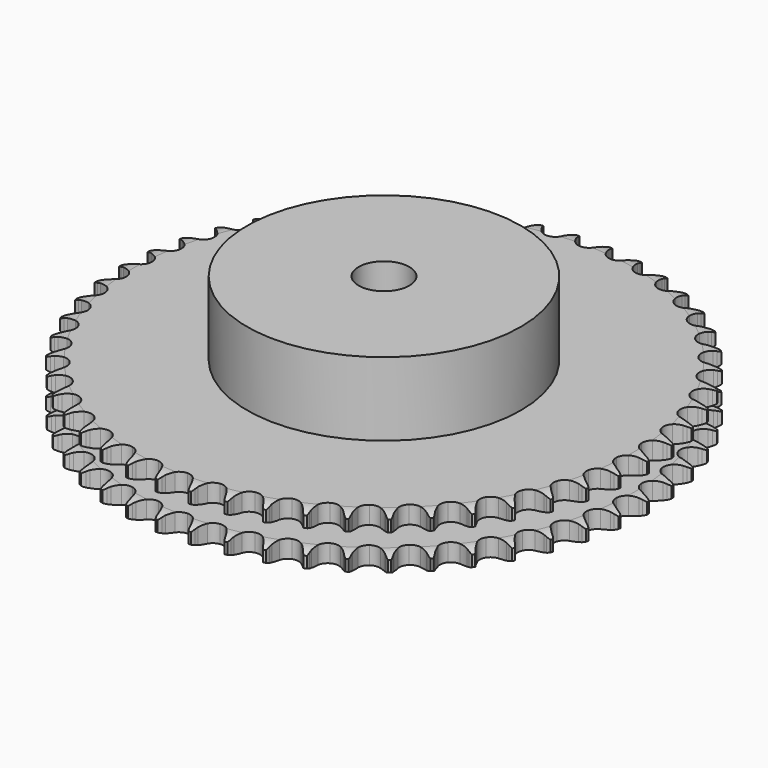
from build123d import *

# Parameters (mm, degrees)
PAD_DEPTH         = 21
SKETCH001_R       = 54
PAD001_DEPTH      = 50
SKETCH002_R       = 10
POCKET_DEPTH      = 0.001
POCKET_DEPTH_BACK = 50.001


with BuildPart() as part:
    # Sprocket → Pad (new body)
    with BuildSketch(Plane.XY):
        with BuildLine():
            ThreePointArc((-6.589501, 104.737116), (-5.911207, 103.745931), (-5.416161, 102.651646))
            Line((-5.416161, 102.651646), (-5.002238, 101.470991))
            ThreePointArc((-5.002238, 101.470991), (-4.348475, 99.970303), (-3.481529, 98.581822))
            ThreePointArc((-3.481529, 98.581822), (-1.951973, 97.282368), (0, 96.815542))
            ThreePointArc((0, 96.815542), (1.951973, 97.282368), (3.481529, 98.581822))
            ThreePointArc((3.481529, 98.581822), (4.348475, 99.970303), (5.002238, 101.470991))
            Line((5.002238, 101.470991), (5.416161, 102.651646))
            ThreePointArc((5.416161, 102.651646), (5.911207, 103.745931), (6.589501, 104.737116))
            ThreePointArc((6.589501, 104.737116), (7.138218, 103.668734), (7.49221, 102.521032))
            Line((7.49221, 102.521032), (7.754893, 101.297809))
            ThreePointArc((7.754893, 101.297809), (8.215416, 99.727015), (8.901502, 98.240826))
            ThreePointArc((8.901502, 98.240826), (10.256133, 96.759914), (12.134205, 96.052122))
            ThreePointArc((12.134205, 96.052122), (14.129295, 96.27062), (15.809655, 97.368124))
            Line((15.809655, 97.368124), (17.680482, 100.043915))
            ThreePointArc((17.680482, 100.043915), (17.944046, 100.61151), (18.239115, 101.163382))
            ThreePointArc((18.239115, 101.163382), (18.867408, 102.186993), (19.664582, 103.08535))
            ThreePointArc((19.664582, 103.08535), (20.075069, 101.956619), (20.282424, 100.7736))
            Line((20.282424, 100.7736), (20.389725, 99.527099))
            ThreePointArc((20.389725, 99.527099), (20.649744, 97.910974), (21.144151, 96.350514))
            ThreePointArc((21.144151, 96.350514), (22.302493, 94.711499), (24.077046, 93.773903))
            ThreePointArc((24.077046, 93.773903), (26.083789, 93.740627), (27.888453, 94.618872))
            Line((27.888453, 94.618872), (30.079893, 97.039087))
            ThreePointArc((30.079893, 97.039087), (30.412517, 97.569173), (30.774428, 98.079711))
            ThreePointArc((30.774428, 98.079711), (31.526059, 99.016505), (32.429541, 99.807865))
            ThreePointArc((32.429541, 99.807865), (32.695323, 98.636588), (32.752772, 97.436908))
            Line((32.752772, 97.436908), (32.702999, 96.186788))
            ThreePointArc((32.702999, 96.186788), (32.758414, 94.550817), (33.053345, 92.940697))
            ThreePointArc((33.053345, 92.940697), (33.997129, 91.169427), (35.640178, 90.016814))
            ThreePointArc((35.640178, 90.016814), (37.626927, 89.732289), (39.527433, 90.377424))
            Line((39.527433, 90.377424), (42.004927, 92.503895))
            ThreePointArc((42.004927, 92.503895), (42.401365, 92.988111), (42.82441, 93.449265))
            ThreePointArc((42.82441, 93.449265), (43.687526, 94.284467), (44.683067, 94.956351))
            ThreePointArc((44.683067, 94.956351), (44.799954, 93.760998), (44.70659, 92.563578))
            Line((44.70659, 92.563578), (44.500528, 91.329554))
            ThreePointArc((44.500528, 91.329554), (44.350463, 89.699538), (44.441268, 88.065149))
            ThreePointArc((44.441268, 88.065149), (45.155611, 86.189559), (46.641243, 84.840106))
            ThreePointArc((46.641243, 84.840106), (48.576665, 84.308818), (50.543043, 84.71067))
            Line((50.543043, 84.71067), (53.267518, 86.50986))
            ThreePointArc((53.267518, 86.50986), (53.721519, 86.940572), (54.199025, 87.345068))
            ThreePointArc((54.199025, 87.345068), (55.160013, 88.065507), (56.231914, 88.607319))
            ThreePointArc((56.231914, 88.607319), (56.198062, 87.406742), (55.955358, 86.230465))
            Line((55.955358, 86.230465), (55.596256, 85.031998))
            ThreePointArc((55.596256, 85.031998), (55.24308, 83.433643), (55.128325, 81.800761))
            ThreePointArc((55.128325, 81.800761), (55.601962, 79.85043), (56.906748, 78.325418))
            ThreePointArc((56.906748, 78.325418), (58.76032, 77.555748), (60.761558, 77.707978))
            Line((60.761558, 77.707978), (63.690048, 79.151514))
            ThreePointArc((63.690048, 79.151514), (64.194451, 79.521928), (64.71889, 79.863387))
            ThreePointArc((64.71889, 79.863387), (65.762595, 80.457701), (66.893951, 80.860896))
            ThreePointArc((66.893951, 80.860896), (66.709893, 79.674029), (66.321676, 78.537446))
            Line((66.321676, 78.537446), (65.815198, 77.393437))
            ThreePointArc((65.815198, 77.393437), (65.26448, 75.85195), (64.945975, 74.246327))
            ThreePointArc((64.945975, 74.246327), (65.171436, 72.252011), (66.274799, 70.575492))
            ThreePointArc((66.274799, 70.575492), (68.01729, 69.579577), (70.021827, 69.479785))
            Line((70.021827, 69.479785), (73.108148, 70.544901))
            ThreePointArc((73.108148, 70.544901), (73.654999, 70.849176), (74.218098, 71.122212))
            ThreePointArc((74.218098, 71.122212), (75.328061, 71.58103), (76.501029, 71.839248))
            ThreePointArc((76.501029, 71.839248), (76.169669, 70.684808), (75.642062, 69.605845))
            Line((75.642062, 69.605845), (74.996195, 68.534335))
            ThreePointArc((74.996195, 68.534335), (74.25662, 67.074026), (73.739389, 65.520983))
            ThreePointArc((73.739389, 65.520983), (73.713118, 63.514136), (74.597657, 61.712549))
            ThreePointArc((74.597657, 61.712549), (76.201587, 60.506094), (78.17781, 60.155854))
            Line((78.17781, 60.155854), (81.373289, 60.825753))
            ThreePointArc((81.373289, 60.825753), (81.953964, 61.05909), (82.546843, 61.259398))
            ThreePointArc((82.546843, 61.259398), (83.705559, 61.575482), (84.901641, 61.684653))
            ThreePointArc((84.901641, 61.684653), (84.428204, 60.580847), (83.769527, 59.576518))
            Line((83.769527, 59.576518), (82.994458, 58.594405))
            ThreePointArc((82.994458, 58.594405), (82.077689, 57.238305), (81.369889, 55.762334))
            ThreePointArc((81.369889, 55.762334), (81.0923, 53.774605), (81.744065, 51.876361))
            ThreePointArc((81.744065, 51.876361), (83.184139, 50.478394), (85.100882, 49.883229))
            Line((85.100882, 49.883229), (88.355125, 50.147346))
            ThreePointArc((88.355125, 50.147346), (88.960466, 50.306065), (89.573775, 50.430487))
            ThreePointArc((89.573775, 50.430487), (90.76297, 50.598853), (91.963303, 50.557254))
            ThreePointArc((91.963303, 50.557254), (91.355256, 49.521489), (90.575897, 48.607634))
            Line((90.575897, 48.607634), (89.683848, 47.730407))
            ThreePointArc((89.683848, 47.730407), (88.604344, 46.499902), (87.717137, 45.12428))
            ThreePointArc((87.717137, 45.12428), (87.192608, 43.187016), (87.601321, 41.222053))
            ThreePointArc((87.601321, 41.222053), (88.854828, 39.65462), (90.681863, 38.823916))
            Line((90.681863, 38.823916), (93.943547, 38.678086))
            ThreePointArc((93.943547, 38.678086), (94.564008, 38.759684), (95.188075, 38.806256))
            ThreePointArc((95.188075, 38.806256), (96.388995, 38.824249), (97.574649, 38.632537))
            ThreePointArc((97.574649, 38.632537), (96.841581, 37.681148), (95.953831, 36.872178))
            Line((95.953831, 36.872178), (94.95887, 36.113672))
            ThreePointArc((94.95887, 36.113672), (93.733655, 35.028168), (92.681033, 33.77459))
            ThreePointArc((92.681033, 33.77459), (91.917837, 31.918341), (92.077052, 29.917648))
            ThreePointArc((92.077052, 29.917648), (93.124222, 28.205468), (94.832736, 27.152327))
            Line((94.832736, 27.152327), (98.050424, 26.598849))
            ThreePointArc((98.050424, 26.598849), (98.676219, 26.602039), (99.301202, 26.570028))
            ThreePointArc((99.301202, 26.570028), (100.494907, 26.437364), (101.647185, 26.098561))
            ThreePointArc((101.647185, 26.098561), (100.800656, 25.246552), (99.818516, 24.555226))
            Line((99.818516, 24.555226), (98.736335, 23.927403))
            ThreePointArc((98.736335, 23.927403), (97.384731, 23.004018), (96.183294, 21.892253))
            ThreePointArc((96.183294, 21.892253), (95.193466, 20.146296), (95.100672, 18.141423))
            ThreePointArc((95.100672, 18.141423), (95.924993, 16.3115), (97.488041, 15.05253))
            Line((97.488041, 15.05253), (100.610987, 14.100133))
            ThreePointArc((100.610987, 14.100133), (101.232247, 14.024865), (101.84829, 13.914775))
            ThreePointArc((101.84829, 13.914775), (103.015955, 13.633546), (104.116684, 13.152996))
            ThreePointArc((104.116684, 13.152996), (103.170045, 12.413803), (102.109003, 11.851023))
            Line((102.109003, 11.851023), (100.956668, 11.363784))
            ThreePointArc((100.956668, 11.363784), (99.499991, 10.617081), (98.168686, 9.664663))
            ThreePointArc((98.168686, 9.664663), (96.967838, 8.056532), (96.624498, 6.079098))
            ThreePointArc((96.624498, 6.079098), (97.212968, 4.160289), (98.605901, 2.715344))
            Line((98.605901, 2.715344), (101.584854, 1.379049))
            ThreePointArc((101.584854, 1.379049), (102.191782, 1.22651), (102.78917, 1.040077))
            ThreePointArc((102.78917, 1.040077), (103.91238, 0.614719), (104.9442, 0))
            ThreePointArc((104.9442, 0), (103.91238, -0.614719), (102.78917, -1.040077))
            Line((102.78917, -1.040077), (101.584854, -1.379049))
            ThreePointArc((101.584854, -1.379049), (100.046077, -1.937293), (98.605901, -2.715344))
            ThreePointArc((98.605901, -2.715344), (97.212968, -4.160289), (96.624498, -6.079098))
            ThreePointArc((96.624498, -6.079098), (96.967838, -8.056532), (98.168686, -9.664663))
            Line((98.168686, -9.664663), (100.956668, -11.363784))
            ThreePointArc((100.956668, -11.363784), (101.539692, -11.591188), (102.109003, -11.851023))
            ThreePointArc((102.109003, -11.851023), (103.170045, -12.413803), (104.116684, -13.152996))
            ThreePointArc((104.116684, -13.152996), (103.015955, -13.633546), (101.84829, -13.914775))
            Line((101.84829, -13.914775), (100.610987, -14.100133))
            ThreePointArc((100.610987, -14.100133), (99.014377, -14.461116), (97.488041, -15.05253))
            ThreePointArc((97.488041, -15.05253), (95.924993, -16.3115), (95.100672, -18.141423))
            ThreePointArc((95.100672, -18.141423), (95.193466, -20.146296), (96.183294, -21.892253))
            Line((96.183294, -21.892253), (98.736335, -23.927403))
            ThreePointArc((98.736335, -23.927403), (99.28626, -24.226086), (99.818516, -24.555226))
            ThreePointArc((99.818516, -24.555226), (100.800656, -25.246552), (101.647185, -26.098561))
            ThreePointArc((101.647185, -26.098561), (100.494907, -26.437364), (99.301202, -26.570028))
            Line((99.301202, -26.570028), (98.050424, -26.598849))
            ThreePointArc((98.050424, -26.598849), (96.42116, -26.756877), (94.832736, -27.152327))
            ThreePointArc((94.832736, -27.152327), (93.124222, -28.205468), (92.077052, -29.917648))
            ThreePointArc((92.077052, -29.917648), (91.917837, -31.918341), (92.681033, -33.77459))
            Line((92.681033, -33.77459), (94.95887, -36.113672))
            ThreePointArc((94.95887, -36.113672), (95.467024, -36.478924), (95.953831, -36.872178))
            ThreePointArc((95.953831, -36.872178), (96.841581, -37.681148), (97.574649, -38.632537))
            ThreePointArc((97.574649, -38.632537), (96.388995, -38.824249), (95.188075, -38.806256))
            Line((95.188075, -38.806256), (93.943547, -38.678086))
            ThreePointArc((93.943547, -38.678086), (92.307325, -38.630667), (90.681863, -38.823916))
            ThreePointArc((90.681863, -38.823916), (88.854828, -39.65462), (87.601321, -41.222053))
            ThreePointArc((87.601321, -41.222053), (87.192608, -43.187016), (87.717137, -45.12428))
            Line((87.717137, -45.12428), (89.683848, -47.730407))
            ThreePointArc((89.683848, -47.730407), (90.142217, -48.156468), (90.575897, -48.607634))
            ThreePointArc((90.575897, -48.607634), (91.355256, -49.521489), (91.963303, -50.557254))
            ThreePointArc((91.963303, -50.557254), (90.76297, -50.598853), (89.573775, -50.430487))
            Line((89.573775, -50.430487), (88.355125, -50.147346))
            ThreePointArc((88.355125, -50.147346), (86.737748, -49.895228), (85.100882, -49.883229))
            ThreePointArc((85.100882, -49.883229), (83.184139, -50.478394), (81.744065, -51.876361))
            ThreePointArc((81.744065, -51.876361), (81.0923, -53.774605), (81.369889, -55.762334))
            Line((81.369889, -55.762334), (82.994458, -58.594405))
            ThreePointArc((82.994458, -58.594405), (83.395813, -59.074555), (83.769527, -59.576518))
            ThreePointArc((83.769527, -59.576518), (84.428204, -60.580847), (84.901641, -61.684653))
            ThreePointArc((84.901641, -61.684653), (83.705559, -61.575482), (82.546843, -61.259398))
            Line((82.546843, -61.259398), (81.373289, -60.825753))
            ThreePointArc((81.373289, -60.825753), (79.800264, -60.372912), (78.17781, -60.155854))
            ThreePointArc((78.17781, -60.155854), (76.201587, -60.506094), (74.597657, -61.712549))
            ThreePointArc((74.597657, -61.712549), (73.713118, -63.514136), (73.739389, -65.520983))
            Line((73.739389, -65.520983), (74.996195, -68.534335))
            ThreePointArc((74.996195, -68.534335), (75.334207, -69.061001), (75.642062, -69.605845))
            ThreePointArc((75.642062, -69.605845), (76.169669, -70.684808), (76.501029, -71.839248))
            ThreePointArc((76.501029, -71.839248), (75.328061, -71.58103), (74.218098, -71.122212))
            Line((74.218098, -71.122212), (73.108148, -70.544901))
            ThreePointArc((73.108148, -70.544901), (71.604283, -69.898479), (70.021827, -69.479785))
            ThreePointArc((70.021827, -69.479785), (68.01729, -69.579577), (66.274799, -70.575492))
            ThreePointArc((66.274799, -70.575492), (65.171436, -72.252011), (64.945975, -74.246327))
            Line((64.945975, -74.246327), (65.815198, -77.393437))
            ThreePointArc((65.815198, -77.393437), (66.084535, -77.958315), (66.321676, -78.537446))
            ThreePointArc((66.321676, -78.537446), (66.709893, -79.674029), (66.893951, -80.860896))
            ThreePointArc((66.893951, -80.860896), (65.762595, -80.457701), (64.71889, -79.863387))
            Line((64.71889, -79.863387), (63.690048, -79.151514))
            ThreePointArc((63.690048, -79.151514), (62.279059, -78.321705), (60.761558, -77.707978))
            ThreePointArc((60.761558, -77.707978), (58.76032, -77.555748), (56.906748, -78.325418))
            ThreePointArc((56.906748, -78.325418), (55.601962, -79.85043), (55.128325, -81.800761))
            Line((55.128325, -81.800761), (55.596256, -85.031998))
            ThreePointArc((55.596256, -85.031998), (55.792671, -85.626178), (55.955358, -86.230465))
            ThreePointArc((55.955358, -86.230465), (56.198062, -87.406742), (56.231914, -88.607319))
            ThreePointArc((56.231914, -88.607319), (55.160013, -88.065507), (54.199025, -87.345068))
            Line((54.199025, -87.345068), (53.267518, -86.50986))
            ThreePointArc((53.267518, -86.50986), (51.971658, -85.509751), (50.543043, -84.71067))
            ThreePointArc((50.543043, -84.71067), (48.576665, -84.308818), (46.641243, -84.840106))
            ThreePointArc((46.641243, -84.840106), (45.155611, -86.189559), (44.441268, -88.065149))
            Line((44.441268, -88.065149), (44.500528, -91.329554))
            ThreePointArc((44.500528, -91.329554), (44.620924, -91.943666), (44.70659, -92.563578))
            ThreePointArc((44.70659, -92.563578), (44.799954, -93.760998), (44.683067, -94.956351))
            ThreePointArc((44.683067, -94.956351), (43.687526, -94.284467), (42.82441, -93.449265))
            Line((42.82441, -93.449265), (42.004927, -92.503895))
            ThreePointArc((42.004927, -92.503895), (40.844632, -91.349257), (39.527433, -90.377424))
            ThreePointArc((39.527433, -90.377424), (37.626927, -89.732289), (35.640178, -90.016814))
            ThreePointArc((35.640178, -90.016814), (33.997129, -91.169427), (33.053345, -92.940697))
            Line((33.053345, -92.940697), (32.702999, -96.186788))
            ThreePointArc((32.702999, -96.186788), (32.745477, -96.811148), (32.752772, -97.436908))
            ThreePointArc((32.752772, -97.436908), (32.695323, -98.636588), (32.429541, -99.807865))
            ThreePointArc((32.429541, -99.807865), (31.526059, -99.016505), (30.774428, -98.079711))
            Line((30.774428, -98.079711), (30.079893, -97.039087))
            ThreePointArc((30.079893, -97.039087), (29.073463, -95.74813), (27.888453, -94.618872))
            ThreePointArc((27.888453, -94.618872), (26.083789, -93.740627), (24.077046, -93.773903))
            ThreePointArc((24.077046, -93.773903), (22.302493, -94.711499), (21.144151, -96.350514))
            Line((21.144151, -96.350514), (20.389725, -99.527099))
            ThreePointArc((20.389725, -99.527099), (20.353615, -100.15186), (20.282424, -100.7736))
            ThreePointArc((20.282424, -100.7736), (20.075069, -101.956619), (19.664582, -103.08535))
            ThreePointArc((19.664582, -103.08535), (18.867408, -102.186993), (18.239115, -101.163382))
            Line((18.239115, -101.163382), (17.680482, -100.043915))
            ThreePointArc((17.680482, -100.043915), (16.843787, -98.636999), (15.809655, -97.368124))
            ThreePointArc((15.809655, -97.368124), (14.129295, -96.27062), (12.134205, -96.052122))
            ThreePointArc((12.134205, -96.052122), (10.256133, -96.759914), (8.901502, -98.240826))
            Line((8.901502, -98.240826), (7.754893, -101.297809))
            ThreePointArc((7.754893, -101.297809), (7.640765, -101.913117), (7.49221, -102.521032))
            ThreePointArc((7.49221, -102.521032), (7.138218, -103.668734), (6.589501, -104.737116))
            ThreePointArc((6.589501, -104.737116), (5.911207, -103.745931), (5.416161, -102.651646))
            Line((5.416161, -102.651646), (5.002238, -101.470991))
            ThreePointArc((5.002238, -101.470991), (4.348475, -99.970303), (3.481529, -98.581822))
            ThreePointArc((3.481529, -98.581822), (1.951973, -97.282368), (0, -96.815542))
            ThreePointArc((0, -96.815542), (-1.951973, -97.282368), (-3.481529, -98.581822))
            Line((-3.481529, -98.581822), (-5.002238, -101.470991))
            ThreePointArc((-5.002238, -101.470991), (-5.192586, -102.067143), (-5.416161, -102.651646))
            ThreePointArc((-5.416161, -102.651646), (-5.911207, -103.745931), (-6.589501, -104.737116))
            ThreePointArc((-6.589501, -104.737116), (-7.138218, -103.668734), (-7.49221, -102.521032))
            Line((-7.49221, -102.521032), (-7.754893, -101.297809))
            ThreePointArc((-7.754893, -101.297809), (-8.215416, -99.727015), (-8.901502, -98.240826))
            ThreePointArc((-8.901502, -98.240826), (-10.256133, -96.759914), (-12.134205, -96.052122))
            ThreePointArc((-12.134205, -96.052122), (-14.129295, -96.27062), (-15.809655, -97.368124))
            Line((-15.809655, -97.368124), (-17.680482, -100.043915))
            ThreePointArc((-17.680482, -100.043915), (-17.944046, -100.61151), (-18.239115, -101.163382))
            ThreePointArc((-18.239115, -101.163382), (-18.867408, -102.186993), (-19.664582, -103.08535))
            ThreePointArc((-19.664582, -103.08535), (-20.075069, -101.956619), (-20.282424, -100.7736))
            Line((-20.282424, -100.7736), (-20.389725, -99.527099))
            ThreePointArc((-20.389725, -99.527099), (-20.649744, -97.910974), (-21.144151, -96.350514))
            ThreePointArc((-21.144151, -96.350514), (-22.302493, -94.711499), (-24.077046, -93.773903))
            ThreePointArc((-24.077046, -93.773903), (-26.083789, -93.740627), (-27.888453, -94.618872))
            Line((-27.888453, -94.618872), (-30.079893, -97.039087))
            ThreePointArc((-30.079893, -97.039087), (-30.412517, -97.569173), (-30.774428, -98.079711))
            ThreePointArc((-30.774428, -98.079711), (-31.526059, -99.016505), (-32.429541, -99.807865))
            ThreePointArc((-32.429541, -99.807865), (-32.695323, -98.636588), (-32.752772, -97.436908))
            Line((-32.752772, -97.436908), (-32.702999, -96.186788))
            ThreePointArc((-32.702999, -96.186788), (-32.758414, -94.550817), (-33.053345, -92.940697))
            ThreePointArc((-33.053345, -92.940697), (-33.997129, -91.169427), (-35.640178, -90.016814))
            ThreePointArc((-35.640178, -90.016814), (-37.626927, -89.732289), (-39.527433, -90.377424))
            Line((-39.527433, -90.377424), (-42.004927, -92.503895))
            ThreePointArc((-42.004927, -92.503895), (-42.401365, -92.988111), (-42.82441, -93.449265))
            ThreePointArc((-42.82441, -93.449265), (-43.687526, -94.284467), (-44.683067, -94.956351))
            ThreePointArc((-44.683067, -94.956351), (-44.799954, -93.760998), (-44.70659, -92.563578))
            Line((-44.70659, -92.563578), (-44.500528, -91.329554))
            ThreePointArc((-44.500528, -91.329554), (-44.350463, -89.699538), (-44.441268, -88.065149))
            ThreePointArc((-44.441268, -88.065149), (-45.155611, -86.189559), (-46.641243, -84.840106))
            ThreePointArc((-46.641243, -84.840106), (-48.576665, -84.308818), (-50.543043, -84.71067))
            Line((-50.543043, -84.71067), (-53.267518, -86.50986))
            ThreePointArc((-53.267518, -86.50986), (-53.721519, -86.940572), (-54.199025, -87.345068))
            ThreePointArc((-54.199025, -87.345068), (-55.160013, -88.065507), (-56.231914, -88.607319))
            ThreePointArc((-56.231914, -88.607319), (-56.198062, -87.406742), (-55.955358, -86.230465))
            Line((-55.955358, -86.230465), (-55.596256, -85.031998))
            ThreePointArc((-55.596256, -85.031998), (-55.24308, -83.433643), (-55.128325, -81.800761))
            ThreePointArc((-55.128325, -81.800761), (-55.601962, -79.85043), (-56.906748, -78.325418))
            ThreePointArc((-56.906748, -78.325418), (-58.76032, -77.555748), (-60.761558, -77.707978))
            Line((-60.761558, -77.707978), (-63.690048, -79.151514))
            ThreePointArc((-63.690048, -79.151514), (-64.194451, -79.521928), (-64.71889, -79.863387))
            ThreePointArc((-64.71889, -79.863387), (-65.762595, -80.457701), (-66.893951, -80.860896))
            ThreePointArc((-66.893951, -80.860896), (-66.709893, -79.674029), (-66.321676, -78.537446))
            Line((-66.321676, -78.537446), (-65.815198, -77.393437))
            ThreePointArc((-65.815198, -77.393437), (-65.26448, -75.85195), (-64.945975, -74.246327))
            ThreePointArc((-64.945975, -74.246327), (-65.171436, -72.252011), (-66.274799, -70.575492))
            ThreePointArc((-66.274799, -70.575492), (-68.01729, -69.579577), (-70.021827, -69.479785))
            Line((-70.021827, -69.479785), (-73.108148, -70.544901))
            ThreePointArc((-73.108148, -70.544901), (-73.654999, -70.849176), (-74.218098, -71.122212))
            ThreePointArc((-74.218098, -71.122212), (-75.328061, -71.58103), (-76.501029, -71.839248))
            ThreePointArc((-76.501029, -71.839248), (-76.169669, -70.684808), (-75.642062, -69.605845))
            Line((-75.642062, -69.605845), (-74.996195, -68.534335))
            ThreePointArc((-74.996195, -68.534335), (-74.25662, -67.074026), (-73.739389, -65.520983))
            ThreePointArc((-73.739389, -65.520983), (-73.713118, -63.514136), (-74.597657, -61.712549))
            ThreePointArc((-74.597657, -61.712549), (-76.201587, -60.506094), (-78.17781, -60.155854))
            Line((-78.17781, -60.155854), (-81.373289, -60.825753))
            ThreePointArc((-81.373289, -60.825753), (-81.953964, -61.05909), (-82.546843, -61.259398))
            ThreePointArc((-82.546843, -61.259398), (-83.705559, -61.575482), (-84.901641, -61.684653))
            ThreePointArc((-84.901641, -61.684653), (-84.428204, -60.580847), (-83.769527, -59.576518))
            Line((-83.769527, -59.576518), (-82.994458, -58.594405))
            ThreePointArc((-82.994458, -58.594405), (-82.077689, -57.238305), (-81.369889, -55.762334))
            ThreePointArc((-81.369889, -55.762334), (-81.0923, -53.774605), (-81.744065, -51.876361))
            ThreePointArc((-81.744065, -51.876361), (-83.184139, -50.478394), (-85.100882, -49.883229))
            Line((-85.100882, -49.883229), (-88.355125, -50.147346))
            ThreePointArc((-88.355125, -50.147346), (-88.960466, -50.306065), (-89.573775, -50.430487))
            ThreePointArc((-89.573775, -50.430487), (-90.76297, -50.598853), (-91.963303, -50.557254))
            ThreePointArc((-91.963303, -50.557254), (-91.355256, -49.521489), (-90.575897, -48.607634))
            Line((-90.575897, -48.607634), (-89.683848, -47.730407))
            ThreePointArc((-89.683848, -47.730407), (-88.604344, -46.499902), (-87.717137, -45.12428))
            ThreePointArc((-87.717137, -45.12428), (-87.192608, -43.187016), (-87.601321, -41.222053))
            ThreePointArc((-87.601321, -41.222053), (-88.854828, -39.65462), (-90.681863, -38.823916))
            Line((-90.681863, -38.823916), (-93.943547, -38.678086))
            ThreePointArc((-93.943547, -38.678086), (-94.564008, -38.759684), (-95.188075, -38.806256))
            ThreePointArc((-95.188075, -38.806256), (-96.388995, -38.824249), (-97.574649, -38.632537))
            ThreePointArc((-97.574649, -38.632537), (-96.841581, -37.681148), (-95.953831, -36.872178))
            Line((-95.953831, -36.872178), (-94.95887, -36.113672))
            ThreePointArc((-94.95887, -36.113672), (-93.733655, -35.028168), (-92.681033, -33.77459))
            ThreePointArc((-92.681033, -33.77459), (-91.917837, -31.918341), (-92.077052, -29.917648))
            ThreePointArc((-92.077052, -29.917648), (-93.124222, -28.205468), (-94.832736, -27.152327))
            Line((-94.832736, -27.152327), (-98.050424, -26.598849))
            ThreePointArc((-98.050424, -26.598849), (-98.676219, -26.602039), (-99.301202, -26.570028))
            ThreePointArc((-99.301202, -26.570028), (-100.494907, -26.437364), (-101.647185, -26.098561))
            ThreePointArc((-101.647185, -26.098561), (-100.800656, -25.246552), (-99.818516, -24.555226))
            Line((-99.818516, -24.555226), (-98.736335, -23.927403))
            ThreePointArc((-98.736335, -23.927403), (-97.384731, -23.004018), (-96.183294, -21.892253))
            ThreePointArc((-96.183294, -21.892253), (-95.193466, -20.146296), (-95.100672, -18.141423))
            ThreePointArc((-95.100672, -18.141423), (-95.924993, -16.3115), (-97.488041, -15.05253))
            Line((-97.488041, -15.05253), (-100.610987, -14.100133))
            ThreePointArc((-100.610987, -14.100133), (-101.232247, -14.024865), (-101.84829, -13.914775))
            ThreePointArc((-101.84829, -13.914775), (-103.015955, -13.633546), (-104.116684, -13.152996))
            ThreePointArc((-104.116684, -13.152996), (-103.170045, -12.413803), (-102.109003, -11.851023))
            Line((-102.109003, -11.851023), (-100.956668, -11.363784))
            ThreePointArc((-100.956668, -11.363784), (-99.499991, -10.617081), (-98.168686, -9.664663))
            ThreePointArc((-98.168686, -9.664663), (-96.967838, -8.056532), (-96.624498, -6.079098))
            ThreePointArc((-96.624498, -6.079098), (-97.212968, -4.160289), (-98.605901, -2.715344))
            Line((-98.605901, -2.715344), (-101.584854, -1.379049))
            ThreePointArc((-101.584854, -1.379049), (-102.191782, -1.22651), (-102.78917, -1.040077))
            ThreePointArc((-102.78917, -1.040077), (-103.91238, -0.614719), (-104.9442, 0))
            ThreePointArc((-104.9442, 0), (-103.91238, 0.614719), (-102.78917, 1.040077))
            Line((-102.78917, 1.040077), (-101.584854, 1.379049))
            ThreePointArc((-101.584854, 1.379049), (-100.046077, 1.937293), (-98.605901, 2.715344))
            ThreePointArc((-98.605901, 2.715344), (-97.212968, 4.160289), (-96.624498, 6.079098))
            ThreePointArc((-96.624498, 6.079098), (-96.967838, 8.056532), (-98.168686, 9.664663))
            Line((-98.168686, 9.664663), (-100.956668, 11.363784))
            ThreePointArc((-100.956668, 11.363784), (-101.539692, 11.591188), (-102.109003, 11.851023))
            ThreePointArc((-102.109003, 11.851023), (-103.170045, 12.413803), (-104.116684, 13.152996))
            ThreePointArc((-104.116684, 13.152996), (-103.015955, 13.633546), (-101.84829, 13.914775))
            Line((-101.84829, 13.914775), (-100.610987, 14.100133))
            ThreePointArc((-100.610987, 14.100133), (-99.014377, 14.461116), (-97.488041, 15.05253))
            ThreePointArc((-97.488041, 15.05253), (-95.924993, 16.3115), (-95.100672, 18.141423))
            ThreePointArc((-95.100672, 18.141423), (-95.193466, 20.146296), (-96.183294, 21.892253))
            Line((-96.183294, 21.892253), (-98.736335, 23.927403))
            ThreePointArc((-98.736335, 23.927403), (-99.28626, 24.226086), (-99.818516, 24.555226))
            ThreePointArc((-99.818516, 24.555226), (-100.800656, 25.246552), (-101.647185, 26.098561))
            ThreePointArc((-101.647185, 26.098561), (-100.494907, 26.437364), (-99.301202, 26.570028))
            Line((-99.301202, 26.570028), (-98.050424, 26.598849))
            ThreePointArc((-98.050424, 26.598849), (-96.42116, 26.756877), (-94.832736, 27.152327))
            ThreePointArc((-94.832736, 27.152327), (-93.124222, 28.205468), (-92.077052, 29.917648))
            ThreePointArc((-92.077052, 29.917648), (-91.917837, 31.918341), (-92.681033, 33.77459))
            Line((-92.681033, 33.77459), (-94.95887, 36.113672))
            ThreePointArc((-94.95887, 36.113672), (-95.467024, 36.478924), (-95.953831, 36.872178))
            ThreePointArc((-95.953831, 36.872178), (-96.841581, 37.681148), (-97.574649, 38.632537))
            ThreePointArc((-97.574649, 38.632537), (-96.388995, 38.824249), (-95.188075, 38.806256))
            Line((-95.188075, 38.806256), (-93.943547, 38.678086))
            ThreePointArc((-93.943547, 38.678086), (-92.307325, 38.630667), (-90.681863, 38.823916))
            ThreePointArc((-90.681863, 38.823916), (-88.854828, 39.65462), (-87.601321, 41.222053))
            ThreePointArc((-87.601321, 41.222053), (-87.192608, 43.187016), (-87.717137, 45.12428))
            Line((-87.717137, 45.12428), (-89.683848, 47.730407))
            ThreePointArc((-89.683848, 47.730407), (-90.142217, 48.156468), (-90.575897, 48.607634))
            ThreePointArc((-90.575897, 48.607634), (-91.355256, 49.521489), (-91.963303, 50.557254))
            ThreePointArc((-91.963303, 50.557254), (-90.76297, 50.598853), (-89.573775, 50.430487))
            Line((-89.573775, 50.430487), (-88.355125, 50.147346))
            ThreePointArc((-88.355125, 50.147346), (-86.737748, 49.895228), (-85.100882, 49.883229))
            ThreePointArc((-85.100882, 49.883229), (-83.184139, 50.478394), (-81.744065, 51.876361))
            ThreePointArc((-81.744065, 51.876361), (-81.0923, 53.774605), (-81.369889, 55.762334))
            Line((-81.369889, 55.762334), (-82.994458, 58.594405))
            ThreePointArc((-82.994458, 58.594405), (-83.395813, 59.074555), (-83.769527, 59.576518))
            ThreePointArc((-83.769527, 59.576518), (-84.428204, 60.580847), (-84.901641, 61.684653))
            ThreePointArc((-84.901641, 61.684653), (-83.705559, 61.575482), (-82.546843, 61.259398))
            Line((-82.546843, 61.259398), (-81.373289, 60.825753))
            ThreePointArc((-81.373289, 60.825753), (-79.800264, 60.372912), (-78.17781, 60.155854))
            ThreePointArc((-78.17781, 60.155854), (-76.201587, 60.506094), (-74.597657, 61.712549))
            ThreePointArc((-74.597657, 61.712549), (-73.713118, 63.514136), (-73.739389, 65.520983))
            Line((-73.739389, 65.520983), (-74.996195, 68.534335))
            ThreePointArc((-74.996195, 68.534335), (-75.334207, 69.061001), (-75.642062, 69.605845))
            ThreePointArc((-75.642062, 69.605845), (-76.169669, 70.684808), (-76.501029, 71.839248))
            ThreePointArc((-76.501029, 71.839248), (-75.328061, 71.58103), (-74.218098, 71.122212))
            Line((-74.218098, 71.122212), (-73.108148, 70.544901))
            ThreePointArc((-73.108148, 70.544901), (-71.604283, 69.898479), (-70.021827, 69.479785))
            ThreePointArc((-70.021827, 69.479785), (-68.01729, 69.579577), (-66.274799, 70.575492))
            ThreePointArc((-66.274799, 70.575492), (-65.171436, 72.252011), (-64.945975, 74.246327))
            Line((-64.945975, 74.246327), (-65.815198, 77.393437))
            ThreePointArc((-65.815198, 77.393437), (-66.084535, 77.958315), (-66.321676, 78.537446))
            ThreePointArc((-66.321676, 78.537446), (-66.709893, 79.674029), (-66.893951, 80.860896))
            ThreePointArc((-66.893951, 80.860896), (-65.762595, 80.457701), (-64.71889, 79.863387))
            Line((-64.71889, 79.863387), (-63.690048, 79.151514))
            ThreePointArc((-63.690048, 79.151514), (-62.279059, 78.321705), (-60.761558, 77.707978))
            ThreePointArc((-60.761558, 77.707978), (-58.76032, 77.555748), (-56.906748, 78.325418))
            ThreePointArc((-56.906748, 78.325418), (-55.601962, 79.85043), (-55.128325, 81.800761))
            Line((-55.128325, 81.800761), (-55.596256, 85.031998))
            ThreePointArc((-55.596256, 85.031998), (-55.792671, 85.626178), (-55.955358, 86.230465))
            ThreePointArc((-55.955358, 86.230465), (-56.198062, 87.406742), (-56.231914, 88.607319))
            ThreePointArc((-56.231914, 88.607319), (-55.160013, 88.065507), (-54.199025, 87.345068))
            Line((-54.199025, 87.345068), (-53.267518, 86.50986))
            ThreePointArc((-53.267518, 86.50986), (-51.971658, 85.509751), (-50.543043, 84.71067))
            ThreePointArc((-50.543043, 84.71067), (-48.576665, 84.308818), (-46.641243, 84.840106))
            ThreePointArc((-46.641243, 84.840106), (-45.155611, 86.189559), (-44.441268, 88.065149))
            Line((-44.441268, 88.065149), (-44.500528, 91.329554))
            ThreePointArc((-44.500528, 91.329554), (-44.620924, 91.943666), (-44.70659, 92.563578))
            ThreePointArc((-44.70659, 92.563578), (-44.799954, 93.760998), (-44.683067, 94.956351))
            ThreePointArc((-44.683067, 94.956351), (-43.687526, 94.284467), (-42.82441, 93.449265))
            Line((-42.82441, 93.449265), (-42.004927, 92.503895))
            ThreePointArc((-42.004927, 92.503895), (-40.844632, 91.349257), (-39.527433, 90.377424))
            ThreePointArc((-39.527433, 90.377424), (-37.626927, 89.732289), (-35.640178, 90.016814))
            ThreePointArc((-35.640178, 90.016814), (-33.997129, 91.169427), (-33.053345, 92.940697))
            Line((-33.053345, 92.940697), (-32.702999, 96.186788))
            ThreePointArc((-32.702999, 96.186788), (-32.745477, 96.811148), (-32.752772, 97.436908))
            ThreePointArc((-32.752772, 97.436908), (-32.695323, 98.636588), (-32.429541, 99.807865))
            ThreePointArc((-32.429541, 99.807865), (-31.526059, 99.016505), (-30.774428, 98.079711))
            Line((-30.774428, 98.079711), (-30.079893, 97.039087))
            ThreePointArc((-30.079893, 97.039087), (-29.073463, 95.74813), (-27.888453, 94.618872))
            ThreePointArc((-27.888453, 94.618872), (-26.083789, 93.740627), (-24.077046, 93.773903))
            ThreePointArc((-24.077046, 93.773903), (-22.302493, 94.711499), (-21.144151, 96.350514))
            Line((-21.144151, 96.350514), (-20.389725, 99.527099))
            ThreePointArc((-20.389725, 99.527099), (-20.353615, 100.15186), (-20.282424, 100.7736))
            ThreePointArc((-20.282424, 100.7736), (-20.075069, 101.956619), (-19.664582, 103.08535))
            ThreePointArc((-19.664582, 103.08535), (-18.867408, 102.186993), (-18.239115, 101.163382))
            Line((-18.239115, 101.163382), (-17.680482, 100.043915))
            ThreePointArc((-17.680482, 100.043915), (-16.843787, 98.636999), (-15.809655, 97.368124))
            ThreePointArc((-15.809655, 97.368124), (-14.129295, 96.27062), (-12.134205, 96.052122))
            ThreePointArc((-12.134205, 96.052122), (-10.256133, 96.759914), (-8.901502, 98.240826))
            Line((-8.901502, 98.240826), (-7.754893, 101.297809))
            ThreePointArc((-7.754893, 101.297809), (-7.640765, 101.913117), (-7.49221, 102.521032))
            ThreePointArc((-7.49221, 102.521032), (-7.138218, 103.668734), (-6.589501, 104.737116))
        make_face()
    extrude(amount=PAD_DEPTH)

    # Sketch → Groove (revolve, cut)
    with BuildSketch(Plane.XZ):
        with BuildLine():
            ThreePointArc((98.483431, 0), (101.39032, 0.329167), (104.15, 1.3))
            Line((104.15, 1.3), (104.15, 5.7))
            ThreePointArc((104.15, 5.7), (101.39032, 6.670833), (98.483431, 7))
            Line((54, 7), (98.483431, 7))
            Line((54, 14), (54, 7))
            Line((98.483431, 14), (54, 14))
            ThreePointArc((98.483431, 14), (101.39032, 14.329167), (104.15, 15.3))
            Line((104.15, 15.3), (104.15, 19.7))
            ThreePointArc((104.15, 19.7), (101.39032, 20.670833), (98.483431, 21))
            Line((98.483431, 21), (108.483431, 21))
            Line((108.483431, 21), (108.483431, 0))
            Line((98.483431, 0), (108.483431, 0))
        make_face()
    revolve(axis=Axis((0, 0, 0), (0, 0, 1)), mode=Mode.SUBTRACT)

    # Sketch001 → Pad001 (join)
    with BuildSketch(Plane.XY):
        Circle(SKETCH001_R)
    extrude(amount=PAD001_DEPTH)

    # Sketch002 → Pocket (cut, two sides)
    with BuildSketch(Plane.XY) as pocket_sk:
        Circle(SKETCH002_R)
    extrude(amount=-POCKET_DEPTH, mode=Mode.SUBTRACT)
    extrude(pocket_sk.sketch, amount=POCKET_DEPTH_BACK, mode=Mode.SUBTRACT)


solid = part.part
